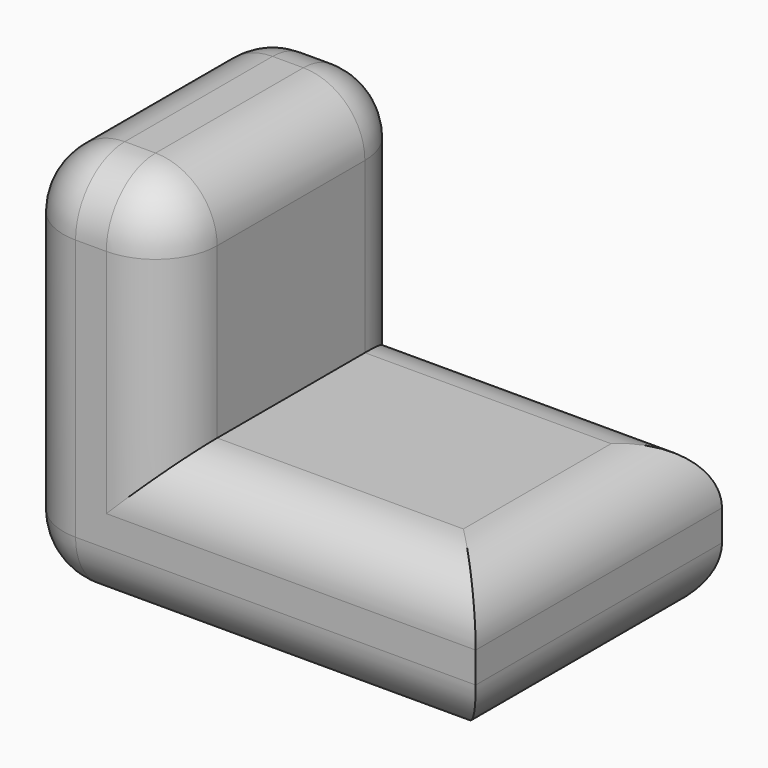
from build123d import *

# Parameters (mm, degrees)
F1_DEPTH = 25.4
F2_R     = 5.08


with BuildPart() as f1:
    # F0 (on Front) → F1 (new body)
    with BuildSketch(Plane.XZ):
        Polygon((-44.45, 0), (-41.101819, 0), (-6.35, 0), (-6.35, 12.7), (-31.75, 12.7), (-31.75, 31.75), (-44.45, 31.75), align=None)
    extrude(amount=F1_DEPTH)

    # F2
    f2_edges = [f1.edges().sort_by_distance(p)[0] for p in [
        (-44.45, -25.4, 15.875),
        (-31.75, -25.4, 22.225),
        (-19.05, -25.4, 12.7),
        (-44.45, 0, 15.875),
        (-31.75, 0, 22.225),
        (-19.05, 0, 12.7),
        (-6.35, -12.7, 12.7),
        (-25.4, -25.4, 0),
        (-44.45, -12.7, 0),
        (-25.4, 0, 0),
        (-6.35, -12.7, 0),
        (-31.75, -12.7, 31.75),
        (-44.45, -12.7, 31.75),
        (-38.1, 0, 31.75),
        (-38.1, -25.4, 31.75),
    ]]
    fillet(f2_edges, radius=F2_R)


solid = f1.part
